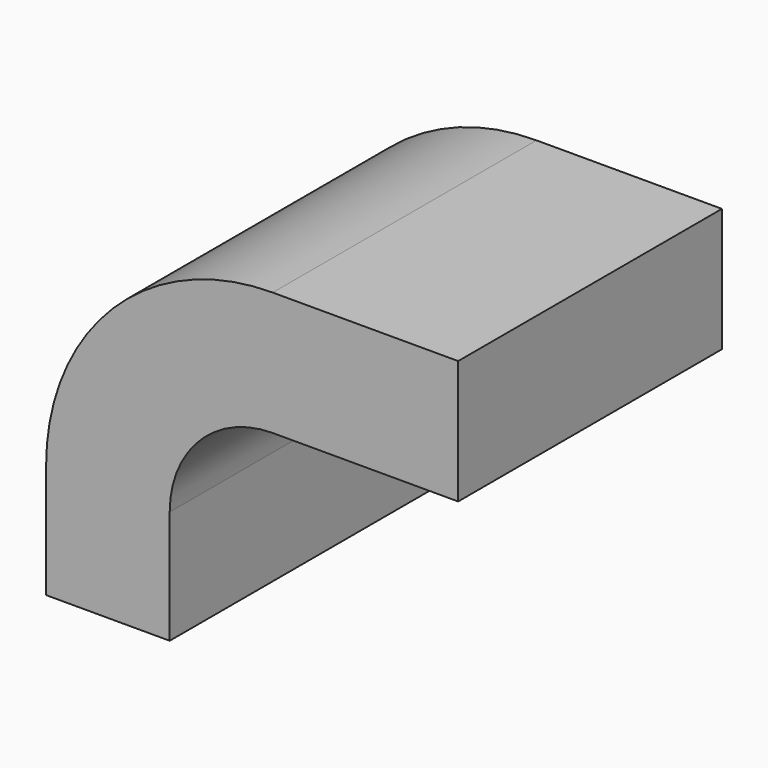
from build123d import *

# Parameters (mm, degrees)
F0_W     = 1
F0_H     = 0.75
F1_DEPTH = 1


with BuildPart() as f1:
    # F0 (on Front) → F1 (new body, symmetric)
    with BuildSketch(Plane.XZ):
        with BuildLine():
            Line((0.875, 0.375), (1.625, 0.375))
            Line((1.625, 0.375), (1.625, 1.063))
            ThreePointArc((1.625, 1.063), (1.8080582618, 1.5049417382), (2.25, 1.688))
            Line((2.25, 1.688), (2.375, 1.688))
            Line((2.375, 1.688), (2.375, 2.438))
            Line((2.375, 2.438), (2.25, 2.438))
            ThreePointArc((2.25, 2.438), (1.2777281759, 2.0352718241), (0.875, 1.063))
            Line((0.875, 1.063), (0.875, 0.375))
        make_face()
        with Locations((2.875, 2.063)):
            Rectangle(F0_W, F0_H)
    extrude(amount=F1_DEPTH, both=True)


solid = f1.part
